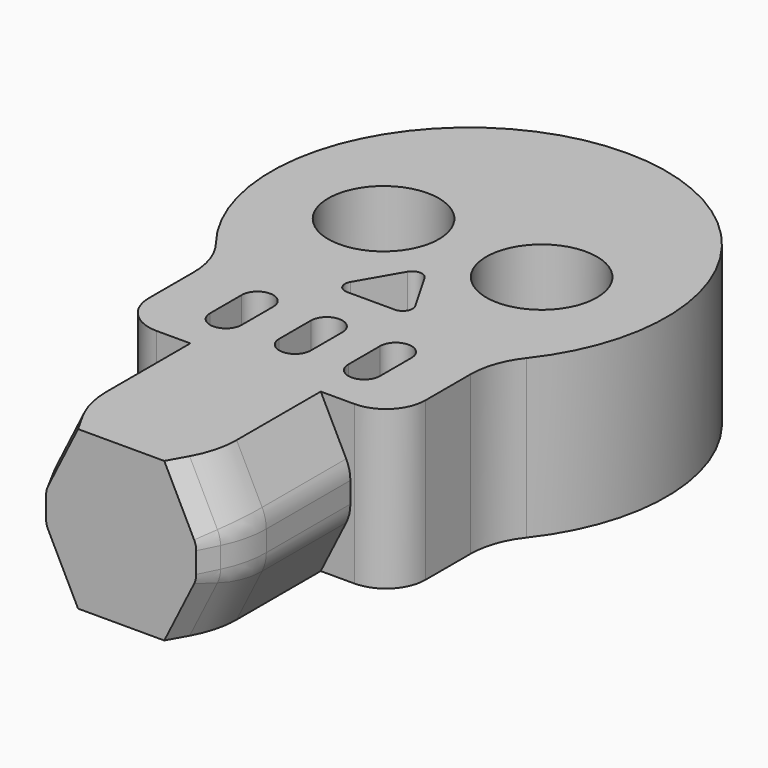
from build123d import *

# Parameters (mm, degrees)
F0_R       = 1.4
F1_DEPTH   = 2
F2_W       = 4.8
F2_H       = 6
F3_DEPTH   = 2
F4_SIZE2   = 1.5
F4_SIZE    = 0.75
F4_2_SIZE2 = 1.5
F4_2_SIZE  = 0.75
F5_R       = 1
F7_DEPTH   = 4.001
F8_SIZE2   = 1
F8_SIZE    = 0.5
F9_R       = 2.5


with BuildPart() as f1:
    # F0 (on Top) → F1 (new body, symmetric)
    with BuildSketch(Plane.XY):
        with BuildLine():
            ThreePointArc((3.5, -4.3301270189), (3.610177635, -3.6754733482), (3.9285714286, -3.0929478707))
            ThreePointArc((3.9285714286, -3.0929478707), (0, 5), (-3.9285714286, -3.0929478707))
            ThreePointArc((-3.9285714286, -3.0929478707), (-3.610177635, -3.6754733482), (-3.5, -4.3301270189))
            Line((-3.5, -4.3301270189), (-3.5, -5.75))
            ThreePointArc((-3.5, -5.75), (-3.2071067812, -6.4571067812), (-2.5, -6.75))
            Line((-2.5, -6.75), (2.5, -6.75))
            ThreePointArc((2.5, -6.75), (3.2071067812, -6.4571067812), (3.5, -5.75))
            Line((3.5, -5.75), (3.5, -4.3301270189))
        make_face()
        with BuildLine():
            ThreePointArc((0.8227241336, -2.725), (0.8227241336, -2.975), (0.6062177826, -3.1))
            Line((0.6062177826, -3.1), (-0.6062177826, -3.1))
            ThreePointArc((-0.6062177826, -3.1), (-0.8227241336, -2.975), (-0.8227241336, -2.725))
            Line((-0.8227241336, -2.725), (-0.2165063509, -1.675))
            ThreePointArc((-0.2165063509, -1.675), (0, -1.55), (0.2165063509, -1.675))
            Line((0.2165063509, -1.675), (0.8227241336, -2.725))
        make_face(mode=Mode.SUBTRACT)
        with Locations((-2, -0.2)):
            Circle(F0_R, mode=Mode.SUBTRACT)
        with Locations((2, -0.2)):
            Circle(F0_R, mode=Mode.SUBTRACT)
    extrude(amount=F1_DEPTH, both=True)

    # F2 (on Top) → F3 (join, symmetric)
    with BuildSketch(Plane.XY):
        with Locations((0, -8)):
            Rectangle(F2_W, F2_H)
    extrude(amount=F3_DEPTH, both=True)

    # F4
    f4_edges = [f1.edges().sort_by_distance(p)[0] for p in [
        (2.4, -8.875, 2),
        (-2.4, -8.875, 2),
    ]]
    f4_side = f1.faces().sort_by_distance((3.07369, -6.32369, 2))[0]
    chamfer(f4_edges, length=F4_SIZE, length2=F4_SIZE2, reference=f4_side)

    # F4#2
    f4_2_edges = [f1.edges().sort_by_distance(p)[0] for p in [
        (2.4, -8.875, -2),
        (-2.4, -8.875, -2),
    ]]
    f4_2_side = f1.faces().sort_by_distance((3.07369, -6.32369, -2))[0]
    chamfer(f4_2_edges, length=F4_2_SIZE, length2=F4_2_SIZE2, reference=f4_2_side)

    # F5
    f5_edges = [f1.edges().sort_by_distance(p)[0] for p in [
        (2.4, -8.875, 0.5),
        (2.4, -8.875, -0.5),
        (-2.4, -8.875, 0.5),
        (-2.4, -8.875, -0.5),
    ]]
    fillet(f5_edges, radius=F5_R)

    # F6 (on face) → F7 (cut, through all)
    with BuildSketch(Plane.XY.offset(2)):
        with BuildLine():
            ThreePointArc((-2.15, -5.5), (-1.75, -5.9), (-1.35, -5.5))
            Line((-1.35, -5.5), (-1.35, -4.5))
            ThreePointArc((-1.35, -4.5), (-1.75, -4.1), (-2.15, -4.5))
            Line((-2.15, -4.5), (-2.15, -5.5))
        make_face()
        with BuildLine():
            ThreePointArc((0.4, -4.5), (0, -4.1), (-0.4, -4.5))
            Line((-0.4, -4.5), (-0.4, -5.5))
            ThreePointArc((-0.4, -5.5), (0, -5.9), (0.4, -5.5))
            Line((0.4, -5.5), (0.4, -4.5))
        make_face()
        with BuildLine():
            ThreePointArc((2.15, -4.5), (1.75, -4.1), (1.35, -4.5))
            Line((1.35, -4.5), (1.35, -5.5))
            ThreePointArc((1.35, -5.5), (1.75, -5.9), (2.15, -5.5))
            Line((2.15, -5.5), (2.15, -4.5))
        make_face()
    extrude(amount=-F7_DEPTH, mode=Mode.SUBTRACT)

    # F8
    f8_edges = [f1.edges().sort_by_distance(p)[0] for p in [
        (1.972214, -11, -1.355573),
        (2.373249, -11, -0.493685),
        (2.4, -11, 0),
        (2.373249, -11, 0.493685),
        (1.972214, -11, 1.355573),
        (-1.972214, -11, 1.355573),
    ]]
    chamfer(f8_edges, length=F8_SIZE, length2=F8_SIZE2)

    # F9
    f9_edges = [f1.edges().sort_by_distance(p)[0] for p in [
        (1.972214, -10, 1.355573),
        (-1.972214, -10, 1.355573),
    ]]
    fillet(f9_edges, radius=F9_R)


solid = f1.part
